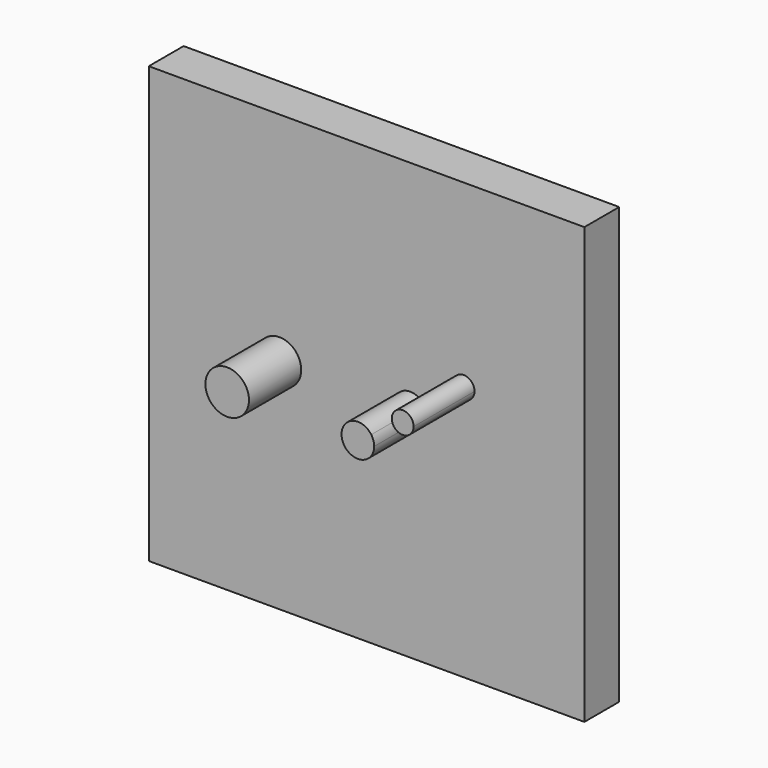
from build123d import *

# Parameters (mm, degrees)
F0_W     = 100
F0_H     = 100
F1_DEPTH = 10
F2_R     = 5
F3_DEPTH = 15
F4_DEPTH = 17.5


with BuildPart() as f1:
    # F0 (on Front) → F1 (new body)
    with BuildSketch(Plane.XZ):
        Rectangle(F0_W, F0_H)
    extrude(amount=-F1_DEPTH)

    # F2 (on face) → F3 (join)
    with BuildSketch(Plane.XZ):
        with Locations((-20, 0)):
            Circle(F2_R)
        with BuildLine():
            ThreePointArc((13.07182, 2.150912), (8.872353, 3.576439), (6.25, 0))
            Line((6.25, 0), (10, 0))
            Line((10, 0), (13.07182, 2.150912))
        make_face()
        with BuildLine():
            Line((10, 0), (6.25, 0))
            ThreePointArc((6.25, 0), (10, -3.75), (13.75, 0))
            ThreePointArc((13.75, 0), (13.576439, 1.127647), (13.07182, 2.150912))
            Line((13.07182, 2.150912), (10, 0))
        make_face()
    extrude(amount=F3_DEPTH)

    # F2 (on face) → F4 (join)
    with BuildSketch(Plane.XZ):
        with BuildLine():
            ThreePointArc((24.787281, 8.603647), (21.535516, 10.987939), (20.239401, 7.169705))
            ThreePointArc((20.239401, 7.169705), (23.039045, 6.219354), (24.787281, 8.603647))
        make_face()
    extrude(amount=F4_DEPTH)


solid = f1.part
